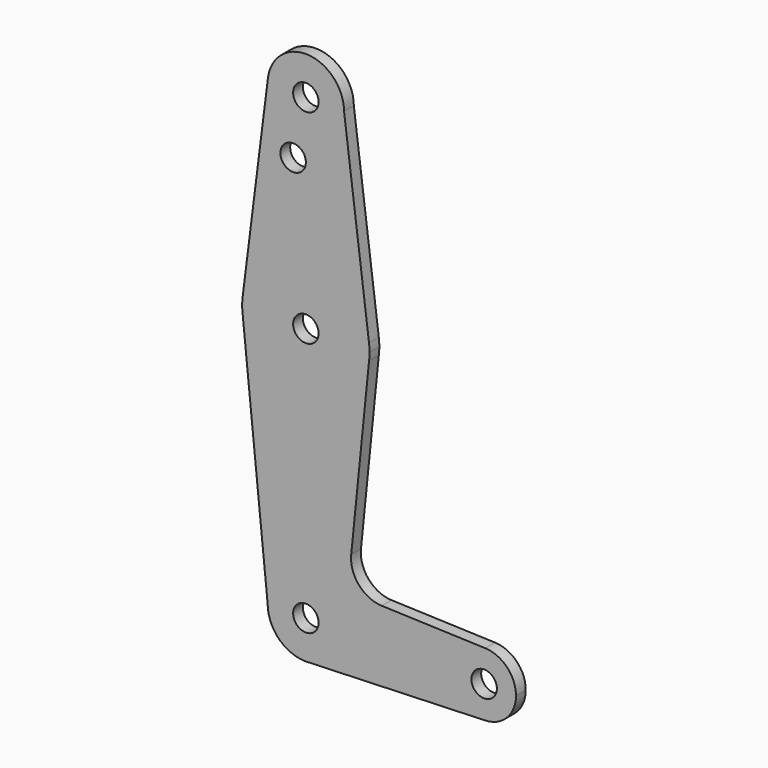
from build123d import *

# Parameters (mm, degrees)
F0_R     = 3.175
F1_DEPTH = 3.048


with BuildPart() as f1:
    # F0 (on Front) → F1 (new body)
    with BuildSketch(Plane.XZ):
        with BuildLine():
            ThreePointArc((-9.450293, 115.490625), (-0.596483, 104.793695), (9.525, 114.3))
            ThreePointArc((9.525, 114.3), (0.596483, 123.806305), (-9.450293, 115.490625))
        make_face()
        with Locations((0, 114.3)):
            Circle(F0_R, mode=Mode.SUBTRACT)
        with BuildLine():
            Line((15.747457, 65.508289), (9.525, 114.3))
            ThreePointArc((9.525, 114.3), (-0.596483, 104.793695), (-9.450293, 115.490625))
            Line((-9.450293, 115.490625), (-15.750488, 65.484375))
            ThreePointArc((-15.750488, 65.484375), (-0.012053, 79.374995), (15.747457, 65.508289))
        make_face()
        with Locations((-3.175, 100.0252)):
            Circle(F0_R, mode=Mode.SUBTRACT)
        with BuildLine():
            ThreePointArc((15.875, 63.5), (15.843082, 64.506168), (15.747457, 65.508289))
            ThreePointArc((15.747457, 65.508289), (-0.012053, 79.374995), (-15.750488, 65.484375))
            ThreePointArc((-15.750488, 65.484375), (-15.875, 63.5), (-15.750488, 61.515625))
            ThreePointArc((-15.750488, 61.515625), (-0.012053, 47.625005), (15.747457, 61.491711))
            ThreePointArc((15.747457, 61.491711), (15.843082, 62.493832), (15.875, 63.5))
        make_face()
        with Locations((0, 63.5)):
            Circle(F0_R, mode=Mode.SUBTRACT)
        with BuildLine():
            ThreePointArc((9.525, 0), (0, 9.525), (-9.525, 0))
            ThreePointArc((-9.525, 0), (-6.735192, -6.735192), (0, -9.525))
            Line((0, -9.525), (0.677344, -9.500886))
            ThreePointArc((0.677344, -9.500886), (6.970557, -6.491299), (9.525, 0))
        make_face()
        Circle(F0_R, mode=Mode.SUBTRACT)
        with BuildLine():
            ThreePointArc((52.3875, 0), (50.161633, 5.51191), (44.732405, 7.932475))
            ThreePointArc((44.732405, 7.932475), (36.5125, 0), (44.732405, -7.932475))
            ThreePointArc((44.732405, -7.932475), (50.161633, -5.51191), (52.3875, 0))
        make_face()
        with Locations((44.45, 0)):
            Circle(F0_R, mode=Mode.SUBTRACT)
        with BuildLine():
            ThreePointArc((15.747457, 61.491711), (-0.012053, 47.625005), (-15.750488, 61.515625))
            Line((-15.750488, 61.515625), (-9.525, 0))
            ThreePointArc((-9.525, 0), (0, 9.525), (9.525, 0))
            ThreePointArc((9.525, 0), (6.970557, -6.491299), (0.677344, -9.500886))
            Line((0.677344, -9.500886), (44.732405, -7.932475))
            ThreePointArc((44.732405, -7.932475), (36.5125, 0), (44.732405, 7.932475))
            Line((44.732405, 7.932475), (18.932576, 8.850978))
            ThreePointArc((18.932576, 8.850978), (13.223672, 11.570776), (11.305627, 17.596552))
            Line((11.305627, 17.596552), (15.747457, 61.491711))
        make_face()
    extrude(amount=F1_DEPTH)


solid = f1.part
